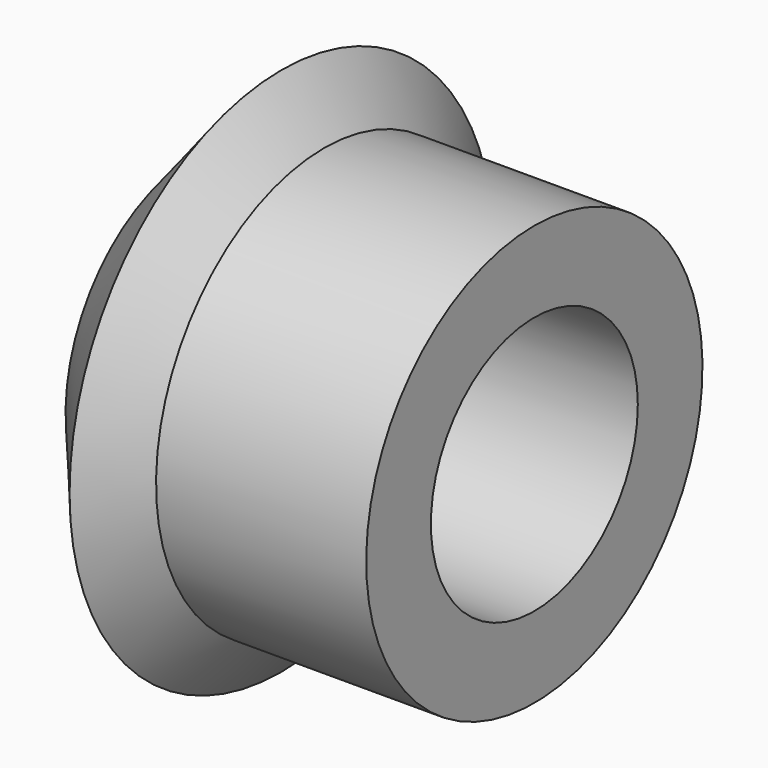
from build123d import *

# Parameters (mm, degrees)
F2_R     = 8
F3_DEPTH = 21.001


with BuildPart() as f1:
    # F0 (on Front) → F1 (revolve)
    with BuildSketch(Plane.XZ):
        Polygon((-142.29493, 2.214532), (-147.655754, -4.174249), (-146.123665, -5.459824), (-146.123665, -14.174249), (-126.655754, -14.174249), (-126.655754, -1.174249), (-139.655754, -1.174249), align=None)
    revolve(axis=Axis((-136.38971, 0, -14.174249), (1, 0, 0)))

    # F2 (on face) → F3 (cut, through all)
    with BuildSketch(Plane.YZ.offset(-126.655754)):
        with Locations((0, -14.174249)):
            Circle(F2_R)
    extrude(amount=-F3_DEPTH, mode=Mode.SUBTRACT)


solid = f1.part
